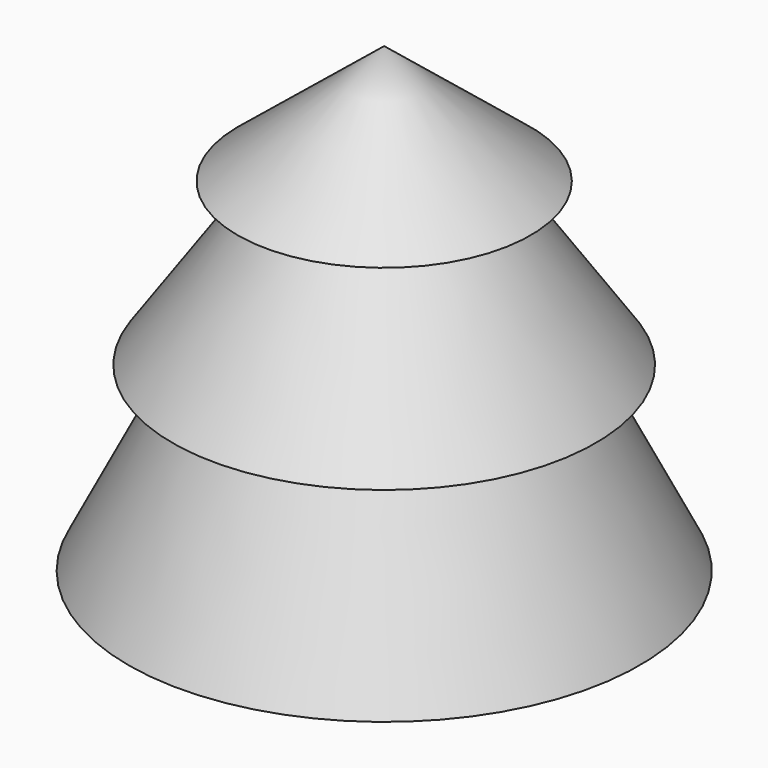
from build123d import *

# Parameters (mm, degrees)
F1_FACE_R = 32.501076
F2_DEPTH  = 25.4
F3_R      = 11.43
F4_DEPTH  = 84.328


with BuildPart() as f1:
    # F0 (on Front) → F1 (revolve)
    with BuildSketch(Plane.XZ):
        Polygon((0, -50.117204), (0, 51.482796), (-28.950538, 27.994625), (-19.664516, 27.994625), (-41.787097, -3.960215), (-32.501076, -3.960215), (-50.526883, -39.738708), (-32.501076, -43.562369), (-32.501076, -50.117204), align=None)
    revolve(axis=Axis((0, 0, 0.682796), (0, 0, 1)))

    # F1_face (on face) → F2 (cut)
    with BuildSketch(Plane(origin=(0, 0, -50.117204), x_dir=(1, 0, 0), z_dir=(0, 0, -1))):
        Circle(F1_FACE_R)
    extrude(amount=-F2_DEPTH, mode=Mode.SUBTRACT)

    # F3 (on Top) → F4 (cut)
    with BuildSketch(Plane.XY):
        Circle(F3_R)
    extrude(amount=-F4_DEPTH, mode=Mode.SUBTRACT)


solid = f1.part
